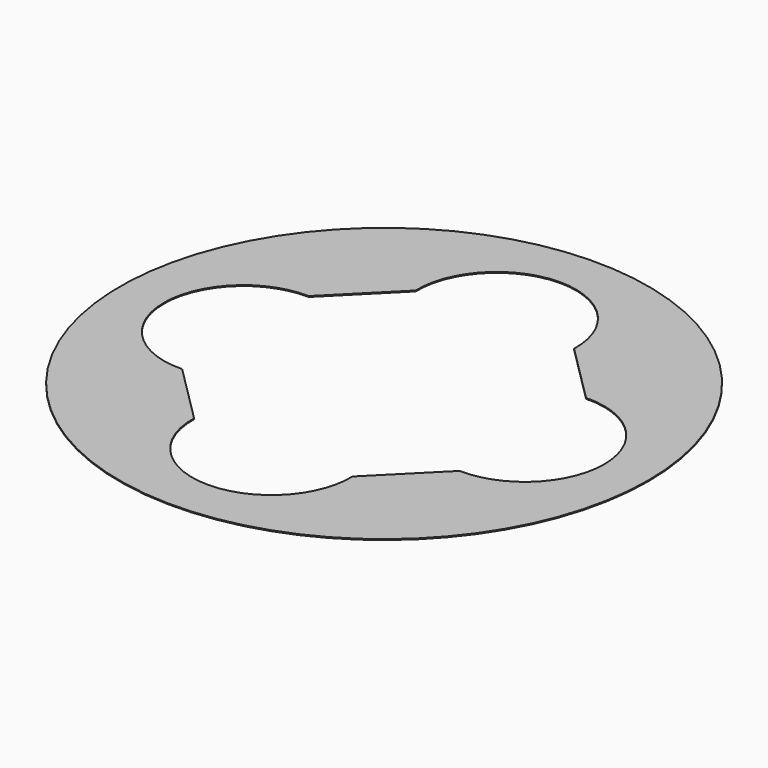
from build123d import *

# Parameters (mm, degrees)
PAD_DEPTH           = 10
CYLINDER_R          = 60
CYLINDER_DEPTH      = 0.2
CUT_ROLL_ANGLE      = -0.040537
CUT_PITCH_ANGLE     = -0.082331
CUT_PLACEMENT_ANGLE = 0.041901


with BuildPart() as pad:
    # Sketch → Pad (new body)
    with BuildSketch(Plane.XY):
        with BuildLine():
            ThreePointArc((31.504301, -17.993173), (50, 0), (31.504301, 17.993173))
            Line((31.504301, 17.993173), (17.993173, 31.504301))
            ThreePointArc((17.993173, 31.504301), (0, 50), (-17.993173, 31.504301))
            Line((-17.993173, 31.504301), (-31.504301, 17.993173))
            ThreePointArc((-31.504301, 17.993173), (-50, 0), (-31.504301, -17.993173))
            Line((-31.504301, -17.993173), (-17.993173, -31.504301))
            ThreePointArc((-17.993173, -31.504301), (0, -50), (17.993173, -31.504301))
            Line((17.993173, -31.504301), (31.504301, -17.993173))
        make_face()
    extrude(amount=PAD_DEPTH)


with BuildPart() as cut:
    # Cylinder → Cylinder (new body)
    with BuildSketch(Plane.XY):
        Circle(CYLINDER_R)
    extrude(amount=CYLINDER_DEPTH)

    # Cut: cut Pad
    add(pad.part, mode=Mode.SUBTRACT)


with BuildPart() as cut_1:
    # Cut roll: moved
    add(cut.part.rotate(Axis((0, 0, 0), (1, 0, 0)), CUT_ROLL_ANGLE))


with BuildPart() as cut_2:
    # Cut pitch: moved
    add(cut_1.part.rotate(Axis((0, 0, 0), (0, 1, 0)), CUT_PITCH_ANGLE))


with BuildPart() as cut_3:
    # Cut placement: moved
    add(cut_2.part.rotate(Axis((0, 0, 0), (0, 0, 1)), CUT_PLACEMENT_ANGLE))


solid = cut_3.part
